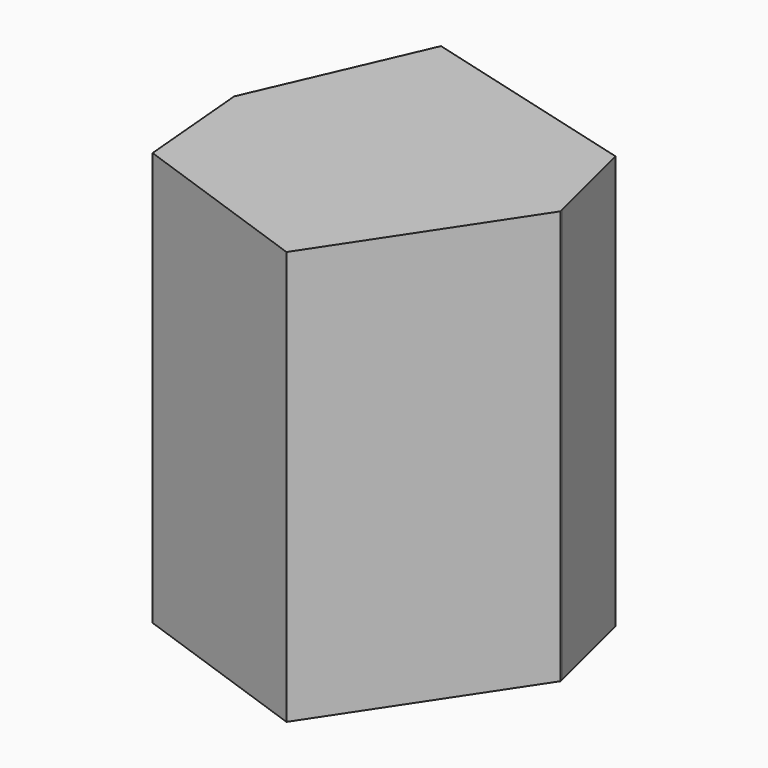
from build123d import *

# Parameters (mm, degrees)
F1_DEPTH = 100


with BuildPart() as f1:
    # F0 (on Top) → F1 (new body)
    with BuildSketch(Plane.XY):
        Polygon((-11.8646007031, -21.5996578336), (-33.768478781, 10.9519390389), (-45.1385089955, -11.7881209321), align=None)
        Polygon((12.1688209474, 18.2532314211), (-41.6782125831, 32.8558161855), (-33.768478781, 10.9519390389), (1.2571312237, 0.1591635659), align=None)
        Polygon((17.9066221318, -4.9712029599), (12.1688209474, 18.2532314211), (1.2571312237, 0.1591635659), align=None)
        Polygon((-45.1385089955, -11.7881209321), (-59.3230053782, -7.6055130921), (-56.8892396986, -35.2895818651), align=None)
        Polygon((-33.768478781, 10.9519390389), (-41.6782125831, 32.8558161855), (-59.3230053782, -7.6055130921), (-45.1385089955, -11.7881209321), align=None)
        Polygon((1.2571312237, 0.1591635659), (-33.768478781, 10.9519390389), (-11.8646007031, -21.5996578336), align=None)
        Polygon((17.9066221318, -4.9712029599), (1.2571312237, 0.1591635659), (-11.8646007031, -21.5996578336), (-45.1385089955, -11.7881209321), (-56.8892396986, -35.2895818651), (-11.8646007031, -51.1090494692), (18.1195368493, -5.8330006636), align=None)
    extrude(amount=F1_DEPTH)


solid = f1.part
